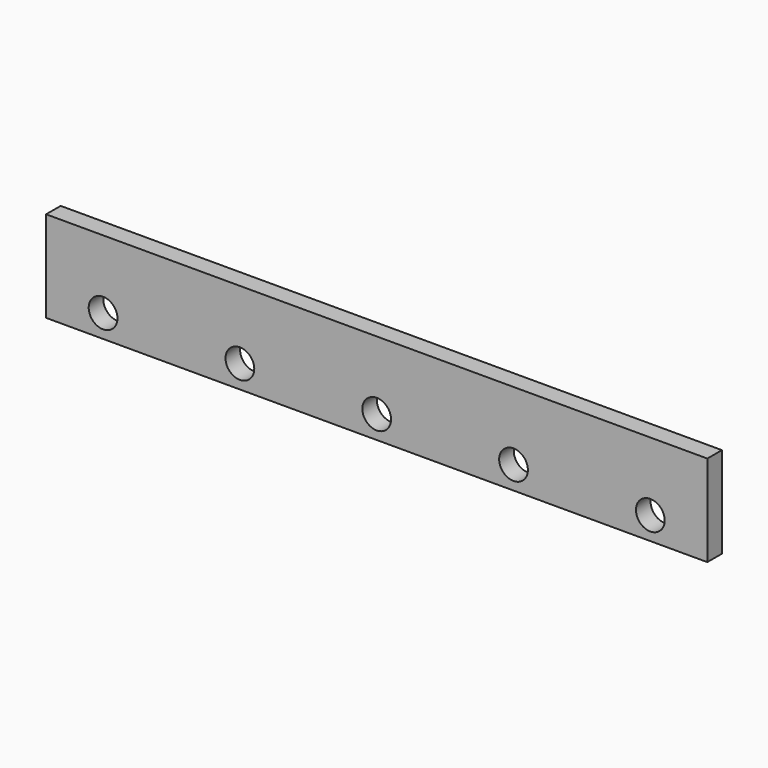
from build123d import *

# Parameters (mm, degrees)
F0_W     = 580
F0_H     = 80
F0_R     = 12.6
F1_DEPTH = 16


with BuildPart() as f1:
    # F0 (on Front) → F1 (new body)
    with BuildSketch(Plane.XZ):
        Rectangle(F0_W, F0_H)
        with Locations((-240, -20)):
            Circle(F0_R, mode=Mode.SUBTRACT)
        with Locations((-120, -20)):
            Circle(F0_R, mode=Mode.SUBTRACT)
        with Locations((0, -20)):
            Circle(F0_R, mode=Mode.SUBTRACT)
        with Locations((120, -20)):
            Circle(F0_R, mode=Mode.SUBTRACT)
        with Locations((240, -20)):
            Circle(F0_R, mode=Mode.SUBTRACT)
    extrude(amount=-F1_DEPTH)


solid = f1.part
